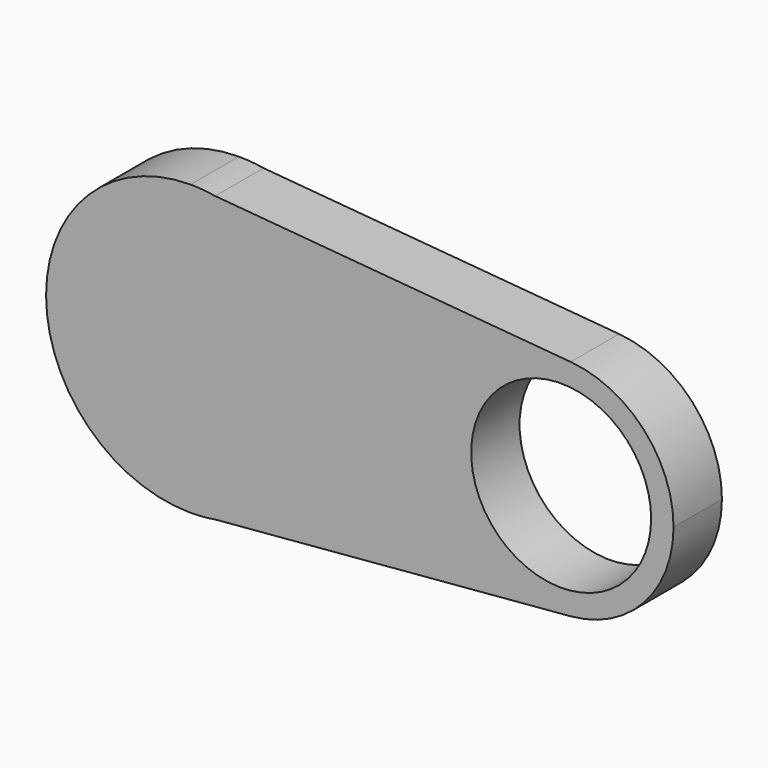
from build123d import *

# Parameters (mm, degrees)
F0_R     = 50.801228
F0_R_2   = 37.784578
F1_DEPTH = 25.4
F2_R     = 52.594394
F3_DEPTH = 25.4


with BuildPart() as f1:
    # F0 (on Front) → F1 (new body)
    with BuildSketch(Plane.XZ):
        with BuildLine():
            Line((10.302363, 59.798444), (0, 60.679425))
            ThreePointArc((0, 60.679425), (-60.679425, 0), (0, -60.679425))
            Line((0, -60.679425), (10.302363, -59.798444))
            ThreePointArc((10.302363, -59.798444), (46.406541, -39.095084), (60.679425, 0))
            ThreePointArc((60.679425, 0), (46.406541, 39.095084), (10.302363, 59.798444))
        make_face()
        Circle(F0_R, mode=Mode.SUBTRACT)
        with BuildLine():
            ThreePointArc((10.302363, 59.798444), (5.169981, 60.458779), (0, 60.679425))
            Line((0, 60.679425), (10.302363, 59.798444))
        make_face()
        with BuildLine():
            Line((10.302363, -59.798444), (0, -60.679425))
            ThreePointArc((0, -60.679425), (5.169981, -60.458779), (10.302363, -59.798444))
        make_face()
        with BuildLine():
            Line((159.67166, 47.025503), (10.302363, 59.798444))
            ThreePointArc((10.302363, 59.798444), (46.406541, 39.095084), (60.679425, 0))
            ThreePointArc((60.679425, 0), (46.406541, -39.095084), (10.302363, -59.798444))
            Line((10.302363, -59.798444), (159.67166, -47.025503))
            ThreePointArc((159.67166, -47.025503), (108.453268, 0), (159.67166, 47.025503))
        make_face()
        with BuildLine():
            ThreePointArc((202.847517, 0), (190.416474, 31.920027), (159.67166, 47.025503))
            ThreePointArc((159.67166, 47.025503), (108.453268, 0), (159.67166, -47.025503))
            ThreePointArc((159.67166, -47.025503), (190.416474, -31.920027), (202.847517, 0))
        make_face()
        with Locations((155.650392, 0)):
            Circle(F0_R_2, mode=Mode.SUBTRACT)
        with BuildLine():
            Line((10.302363, 59.798444), (0, 60.679425))
            ThreePointArc((0, 60.679425), (-60.679425, 0), (0, -60.679425))
            Line((0, -60.679425), (10.302363, -59.798444))
            ThreePointArc((10.302363, -59.798444), (46.406541, -39.095084), (60.679425, 0))
            ThreePointArc((60.679425, 0), (46.406541, 39.095084), (10.302363, 59.798444))
        make_face()
        Circle(F0_R, mode=Mode.SUBTRACT)
    extrude(amount=F1_DEPTH)

    # F2 (on Front) → F3 (join)
    with BuildSketch(Plane.XZ):
        Circle(F2_R)
    extrude(amount=F3_DEPTH)


solid = f1.part
